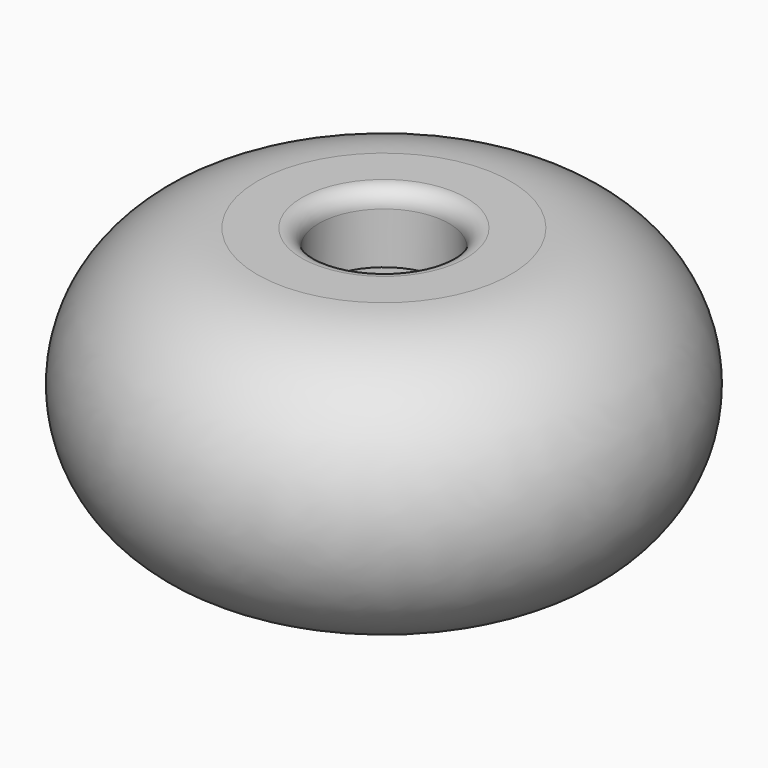
from build123d import *

# Parameters (mm, degrees)
F2_R = 3
F3_R = 5


with BuildPart() as f1:
    # F0 (on Front) → F1 (revolve)
    with BuildSketch(Plane.XZ):
        with BuildLine():
            Line((-31.025, 125.960147), (-26.025, 125.960147))
            Line((-26.025, 125.960147), (-26.025, 150.960147))
            Line((-26.025, 150.960147), (-19, 150.960147))
            Line((-19, 150.960147), (-19, 170.960147))
            Line((-19, 170.960147), (-37, 170.960147))
            ThreePointArc((-37, 170.960147), (-77.162218, 130.797929), (-37, 90.63571))
            Line((-37, 90.63571), (-31.377865, 90.63571))
            Line((-31.377865, 90.63571), (-31.318496, 96.578956))
            Line((-31.318496, 96.578956), (-37, 96.63571))
            ThreePointArc((-37, 96.63571), (-66.908466, 114.289118), (-65.906391, 149.004459))
            ThreePointArc((-65.906391, 149.004459), (-53.508811, 160.706394), (-37, 164.960147))
            Line((-37, 164.960147), (-37, 159.963506))
            Line((-37, 159.963506), (-37, 126.094729))
            Line((-37, 126.094729), (-31.025, 125.960147))
        make_face()
        with BuildLine():
            Line((-65.906391, 149.004459), (-37, 159.963506))
            Line((-37, 159.963506), (-37, 164.960147))
            ThreePointArc((-37, 164.960147), (-53.508811, 160.706394), (-65.906391, 149.004459))
        make_face()
    revolve(axis=Axis((0, 0, 42.688996), (0, 0, -1)))

    # F2
    f2_edges = [f1.edges().sort_by_distance(p)[0] for p in [
        (26.025, 0, 125.960147),
    ]]
    fillet(f2_edges, radius=F2_R)

    # F3
    f3_edges = [f1.edges().sort_by_distance(p)[0] for p in [
        (31.377865, 0, 90.63571),
        (19, 0, 170.960147),
    ]]
    fillet(f3_edges, radius=F3_R)


solid = f1.part
